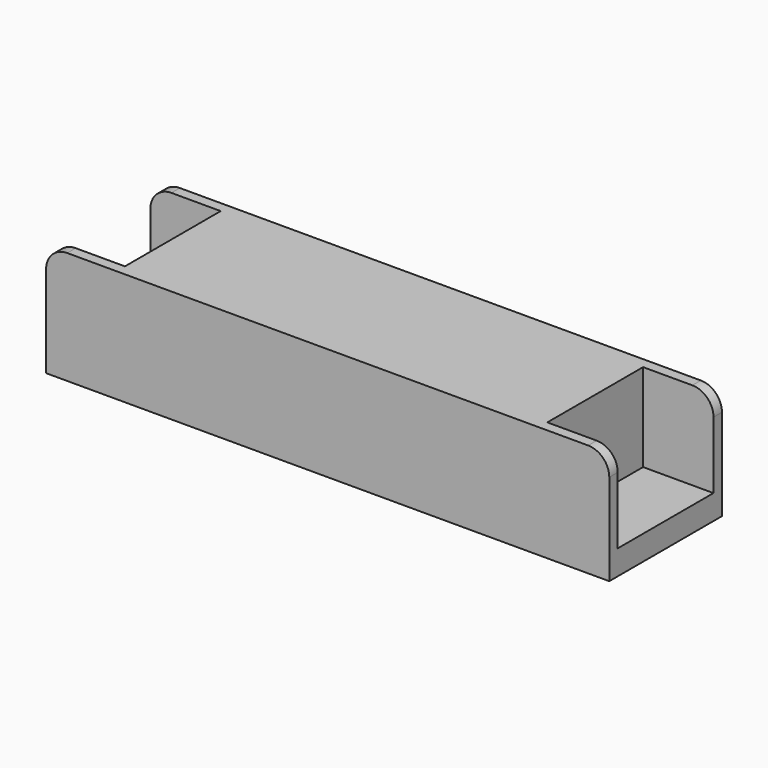
from build123d import *

# Parameters (mm, degrees)
F0_W     = 160
F0_H     = 40
F1_DEPTH = 32
F3_DEPTH = 40.001
F4_W     = 6
F4_H     = 34
F4_W_2   = 14
F5_DEPTH = 25


with BuildPart() as f1:
    # F0 (on Top) → F1 (new body)
    with BuildSketch(Plane.XY):
        Rectangle(F0_W, F0_H)
    extrude(amount=F1_DEPTH)

    # F2 (on face) → F3 (cut, through all)
    with BuildSketch(Plane.XZ.offset(20)):
        with BuildLine():
            ThreePointArc((-80, 26), (-78.2426406871, 30.2426406871), (-74, 32))
            Line((-74, 32), (-80, 32))
            Line((-80, 32), (-80, 26))
        make_face()
        with BuildLine():
            Line((80, 32), (74, 32))
            ThreePointArc((74, 32), (78.2426406871, 30.2426406871), (80, 26))
            Line((80, 26), (80, 32))
        make_face()
    extrude(amount=-F3_DEPTH, mode=Mode.SUBTRACT)

    # F4 (on face) → F5 (cut)
    with BuildSketch(Plane.XY.offset(32)):
        with Locations((77, 0)):
            Rectangle(F4_W, F4_H)
        with Locations((-67, 0)):
            Rectangle(F4_W_2, F4_H)
        with Locations((67, 0)):
            Rectangle(F4_W_2, F4_H)
        with Locations((-77, 0)):
            Rectangle(F4_W, F4_H)
    extrude(amount=-F5_DEPTH, mode=Mode.SUBTRACT)


solid = f1.part
